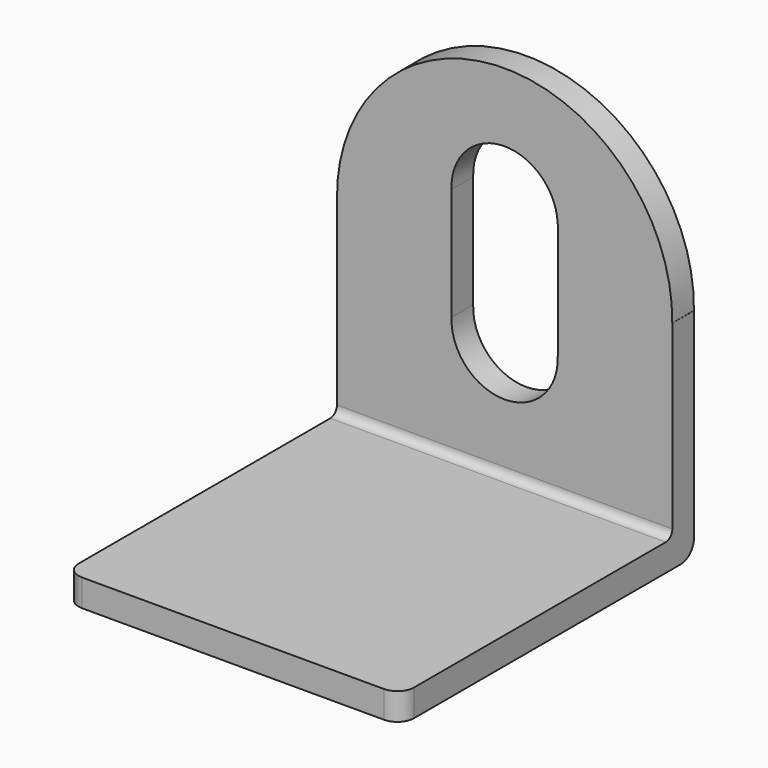
from build123d import *

# Parameters (mm, degrees)
BOX008_W          = 12.75
BOX008_H          = 3.25
BOX008_DEPTH      = 14
CYLINDER004_R     = 6.375
CYLINDER004_DEPTH = 3.25
CYLINDER002_R     = 6.375
CYLINDER002_DEPTH = 3.25
BOX009_W          = 40.25
BOX009_H          = 3.25
BOX009_DEPTH      = 26
BOX007_W          = 40.25
BOX007_H          = 44
BOX007_DEPTH      = 3.25
CYLINDER003_R     = 20.12
CYLINDER003_DEPTH = 3.25
FILLET008_1_R     = 2
FILLET008_2_R     = 1


with BuildPart() as cube004:
    # Box008 → Box008 (new body)
    with BuildSketch(Plane(origin=(13.75, 40.75, 18), x_dir=(1, 0, 0), z_dir=(0, 0, 1))):
        with Locations((6.375, 1.625)):
            Rectangle(BOX008_W, BOX008_H)
    extrude(amount=BOX008_DEPTH)


with BuildPart() as cylinder004:
    # Cylinder004 → Cylinder004 (new body)
    with BuildSketch(Plane(origin=(20.12, 44, 17.75), x_dir=(1, 0, 0), z_dir=(0, -1, 0))):
        Circle(CYLINDER004_R)
    extrude(amount=CYLINDER004_DEPTH)


with BuildPart() as cylinder002:
    # Cylinder002 → Cylinder002 (new body)
    with BuildSketch(Plane(origin=(20.12, 44, 31.75), x_dir=(1, 0, 0), z_dir=(0, -1, 0))):
        Circle(CYLINDER002_R)
    extrude(amount=CYLINDER002_DEPTH)


with BuildPart() as cube005:
    # Box009 → Box009 (new body)
    with BuildSketch(Plane(origin=(0, 40.75, 0), x_dir=(1, 0, 0), z_dir=(0, 0, 1))):
        with Locations((20.125, 1.625)):
            Rectangle(BOX009_W, BOX009_H)
    extrude(amount=BOX009_DEPTH)


with BuildPart() as fusion:
    # Box007 → Box007 (new body)
    with BuildSketch(Plane.XY):
        with Locations((20.125, 22)):
            Rectangle(BOX007_W, BOX007_H)
    extrude(amount=BOX007_DEPTH)

    # Fusion: union Cube005
    add(cube005.part)


with BuildPart() as fillet008:
    # Cylinder003 → Cylinder003 (new body)
    with BuildSketch(Plane(origin=(20.12, 44, 26.25), x_dir=(1, 0, 0), z_dir=(0, -1, 0))):
        Circle(CYLINDER003_R)
    extrude(amount=CYLINDER003_DEPTH)

    # Fusion001: union Fusion
    add(fusion.part)

    # Cut: cut Cylinder002
    add(cylinder002.part, mode=Mode.SUBTRACT)

    # Cut001: cut Cylinder004
    add(cylinder004.part, mode=Mode.SUBTRACT)

    # Cut002: cut Cube004
    add(cube004.part, mode=Mode.SUBTRACT)

    # Fillet008 1
    fillet008_1_edges = [fillet008.edges().sort_by_distance(p)[0] for p in [
        (20.125, 44, 0),
        (40.25, 0, 1.625),
        (0, 0, 1.625),
    ]]
    fillet(fillet008_1_edges, radius=FILLET008_1_R)

    # Fillet008 2
    fillet008_2_edges = [fillet008.edges().sort_by_distance(p)[0] for p in [
        (20.125, 40.75, 3.25),
    ]]
    fillet(fillet008_2_edges, radius=FILLET008_2_R)


solid = fillet008.part
